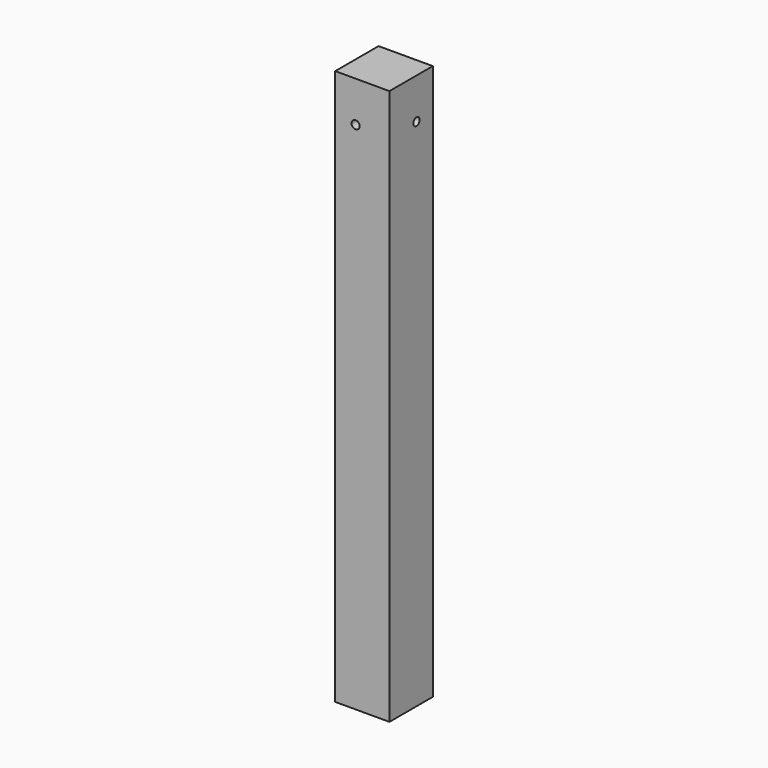
from build123d import *

# Parameters (mm, degrees)
F0_W     = 40
F0_H     = 40
F1_DEPTH = 410
F2_R     = 3
F3_DEPTH = 12
F4_R     = 2.900994
F5_DEPTH = 12


with BuildPart() as f1:
    # F0 (on Top) → F1 (new body)
    with BuildSketch(Plane.XY):
        with Locations((20, 20)):
            Rectangle(F0_W, F0_H)
    extrude(amount=F1_DEPTH)

    # F2 (on face) → F3 (cut)
    with BuildSketch(Plane.XZ):
        with Locations((15, 380)):
            Circle(F2_R)
    extrude(amount=-F3_DEPTH, mode=Mode.SUBTRACT)

    # F4 (on face) → F5 (cut)
    with BuildSketch(Plane.YZ.offset(40)):
        with Locations((25, 380)):
            Circle(F4_R)
    extrude(amount=-F5_DEPTH, mode=Mode.SUBTRACT)


solid = f1.part
